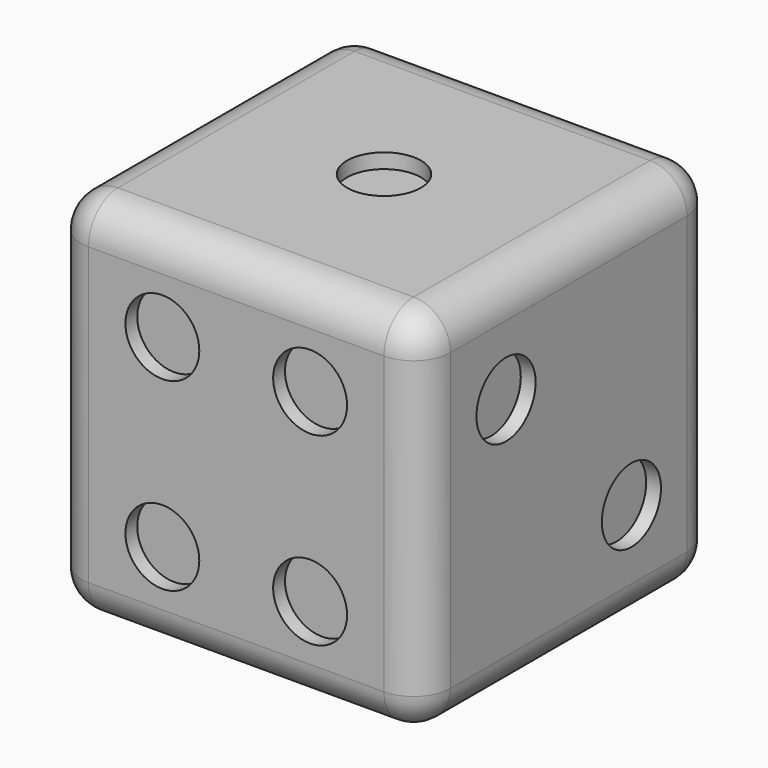
from build123d import *

# Parameters (mm, degrees)
F0_W      = 50
F0_H      = 50
F1_DEPTH  = 50
F2_R      = 5
F3_DEPTH  = 2
F4_R      = 5
F5_DEPTH  = 2
F6_R      = 5
F7_DEPTH  = 2
F8_R      = 5
F9_DEPTH  = 2
F10_R     = 5
F11_DEPTH = 2
F12_R     = 5
F13_DEPTH = 2
F14_R     = 5


with BuildPart() as f1:
    # F0 (on Top) → F1 (new body)
    with BuildSketch(Plane.XY):
        Rectangle(F0_W, F0_H)
    extrude(amount=F1_DEPTH)

    # F2 (on face) → F3 (cut)
    with BuildSketch(Plane.XY.offset(50)):
        Circle(F2_R)
    extrude(amount=-F3_DEPTH, mode=Mode.SUBTRACT)

    # F4 (on face) → F5 (cut)
    with BuildSketch(Plane.YZ.offset(25)):
        with Locations((10.606602, 14.393398)):
            Circle(F4_R)
        with Locations((-10.606602, 35.606602)):
            Circle(F4_R)
    extrude(amount=-F5_DEPTH, mode=Mode.SUBTRACT)

    # F6 (on face) → F7 (cut)
    with BuildSketch(Plane(origin=(0, 0, 0), x_dir=(1, 0, 0), z_dir=(0, 0, -1))):
        with Locations((10, -12.5)):
            Circle(F6_R)
        with Locations((10, 0)):
            Circle(F6_R)
        with Locations((10, 12.5)):
            Circle(F6_R)
        with Locations((-10, -12.5)):
            Circle(F6_R)
        with Locations((-10, 0)):
            Circle(F6_R)
        with Locations((-10, 12.5)):
            Circle(F6_R)
    extrude(amount=-F7_DEPTH, mode=Mode.SUBTRACT)

    # F8 (on face) → F9 (cut)
    with BuildSketch(Plane(origin=(0, 25, 0), x_dir=(-1, 0, 0), z_dir=(0, 1, 0))):
        with Locations((-12.727922, 12.272078)):
            Circle(F8_R)
        with Locations((0, 25)):
            Circle(F8_R)
        with Locations((12.727922, 37.727922)):
            Circle(F8_R)
    extrude(amount=-F9_DEPTH, mode=Mode.SUBTRACT)

    # F10 (on face) → F11 (cut)
    with BuildSketch(Plane.XZ.offset(25)):
        with Locations((-10, 37.5)):
            Circle(F10_R)
        with Locations((-10, 12.5)):
            Circle(F10_R)
        with Locations((10, 12.5)):
            Circle(F10_R)
        with Locations((10, 37.5)):
            Circle(F10_R)
    extrude(amount=-F11_DEPTH, mode=Mode.SUBTRACT)

    # F12 (on face) → F13 (cut)
    with BuildSketch(Plane(origin=(-25, 0, 0), x_dir=(0, -1, 0), z_dir=(-1, 0, 0))):
        with Locations((-10, 35)):
            Circle(F12_R)
        with Locations((0, 25)):
            Circle(F12_R)
        with Locations((10, 35)):
            Circle(F12_R)
        with Locations((10, 15)):
            Circle(F12_R)
        with Locations((-10, 15)):
            Circle(F12_R)
    extrude(amount=-F13_DEPTH, mode=Mode.SUBTRACT)

    # F14
    f14_edges = [f1.edges().sort_by_distance(p)[0] for p in [
        (25, 0, 50),
        (25, -25, 25),
        (-25, -25, 25),
        (0, 25, 0),
        (-25, 25, 25),
        (-25, 0, 50),
        (25, 0, 0),
        (0, -25, 0),
        (25, 25, 25),
        (-25, 0, 0),
        (0, 25, 50),
        (0, -25, 50),
    ]]
    fillet(f14_edges, radius=F14_R)


solid = f1.part
